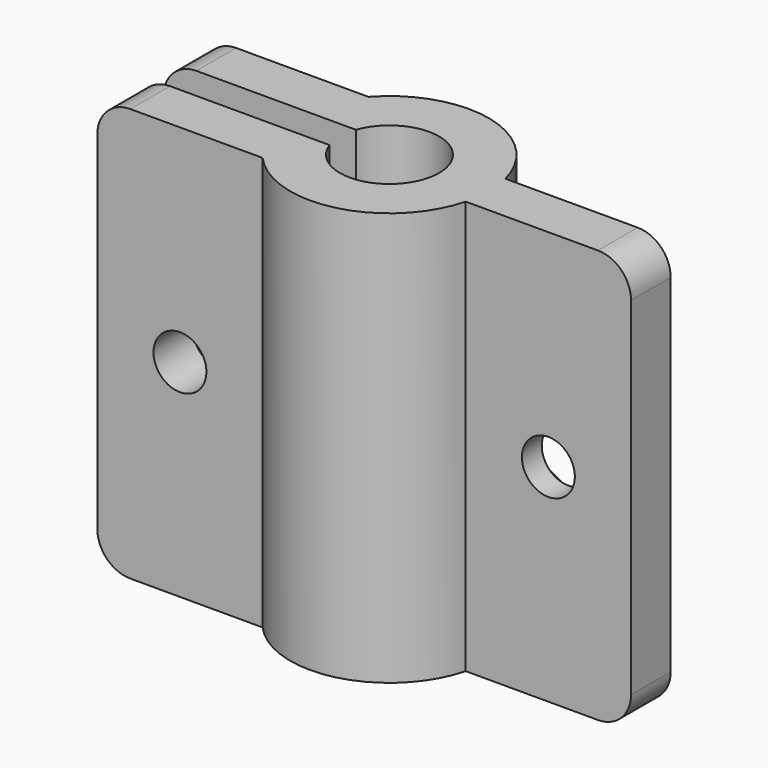
from build123d import *

# Parameters (mm, degrees)
F1_DEPTH = 25
F2_R     = 1.6
F3_DEPTH = 10.001
F2_R_2   = 3
F4_DEPTH = 1.5
F5_R     = 2
F6_R     = 1.6
F7_DEPTH = 7.501
F8_DEPTH = 1.5
F9_R     = 2


with BuildPart() as f1:
    # F0 (on Top) → F1 (new body)
    with BuildSketch(Plane.XY):
        with BuildLine():
            ThreePointArc((-2.828427, 1), (3, 0), (-2.828427, -1))
            Line((-2.828427, -1), (-14.472136, -1))
            Line((-14.472136, -1), (-14.472136, -4))
            Line((-14.472136, -4), (-4.472136, -4))
            ThreePointArc((-4.472136, -4), (1.41761, -5.830127), (5.809475, -1.5))
            Line((5.809475, -1.5), (15.809475, -1.5))
            Line((15.809475, -1.5), (15.809475, 1.5))
            Line((15.809475, 1.5), (5.809475, 1.5))
            ThreePointArc((5.809475, 1.5), (1.41761, 5.830127), (-4.472136, 4))
            Line((-4.472136, 4), (-14.472136, 4))
            Line((-14.472136, 4), (-14.472136, 1))
            Line((-14.472136, 1), (-2.828427, 1))
        make_face()
    extrude(amount=F1_DEPTH)

    # F2 (on face) → F3 (cut, through all)
    with BuildSketch(Plane(origin=(0, 4, 0), x_dir=(-1, 0, 0), z_dir=(0, 1, 0))):
        with Locations((9.472136, 12.5)):
            Circle(F2_R)
    extrude(amount=-F3_DEPTH, mode=Mode.SUBTRACT)

    # F2 (on face) → F4 (cut)
    with BuildSketch(Plane(origin=(0, 4, 0), x_dir=(-1, 0, 0), z_dir=(0, 1, 0))):
        with Locations((9.472136, 12.5)):
            Circle(F2_R_2)
        with Locations((9.472136, 12.5)):
            Circle(F2_R, mode=Mode.SUBTRACT)
    extrude(amount=-F4_DEPTH, mode=Mode.SUBTRACT)

    # F5
    f5_edges = [f1.edges().sort_by_distance(p)[0] for p in [
        (-14.472136, 2.5, 0),
        (-14.472136, -2.5, 0),
        (-14.472136, -2.5, 25),
        (-14.472136, 2.5, 25),
    ]]
    fillet(f5_edges, radius=F5_R)

    # F6 (on face) → F7 (cut, through all)
    with BuildSketch(Plane(origin=(0, 1.5, 0), x_dir=(-1, 0, 0), z_dir=(0, 1, 0))):
        with Locations((-10.809475, 12.5)):
            Circle(F6_R)
    extrude(amount=-F7_DEPTH, mode=Mode.SUBTRACT)

    # F6 (on face) → F8 (cut)
    with BuildSketch(Plane(origin=(0, 1.5, 0), x_dir=(-1, 0, 0), z_dir=(0, 1, 0))):
        Polygon((-13.809475, 14.232051), (-13.809475, 10.767949), (-10.809475, 9.035898), (-7.809475, 10.767949), (-7.809475, 14.232051), (-10.809475, 15.964102), align=None)
        with Locations((-10.809475, 12.5)):
            Circle(F6_R, mode=Mode.SUBTRACT)
    extrude(amount=-F8_DEPTH, mode=Mode.SUBTRACT)

    # F9
    f9_edges = [f1.edges().sort_by_distance(p)[0] for p in [
        (15.809475, 0, 25),
        (15.809475, 0, 0),
    ]]
    fillet(f9_edges, radius=F9_R)


solid = f1.part
